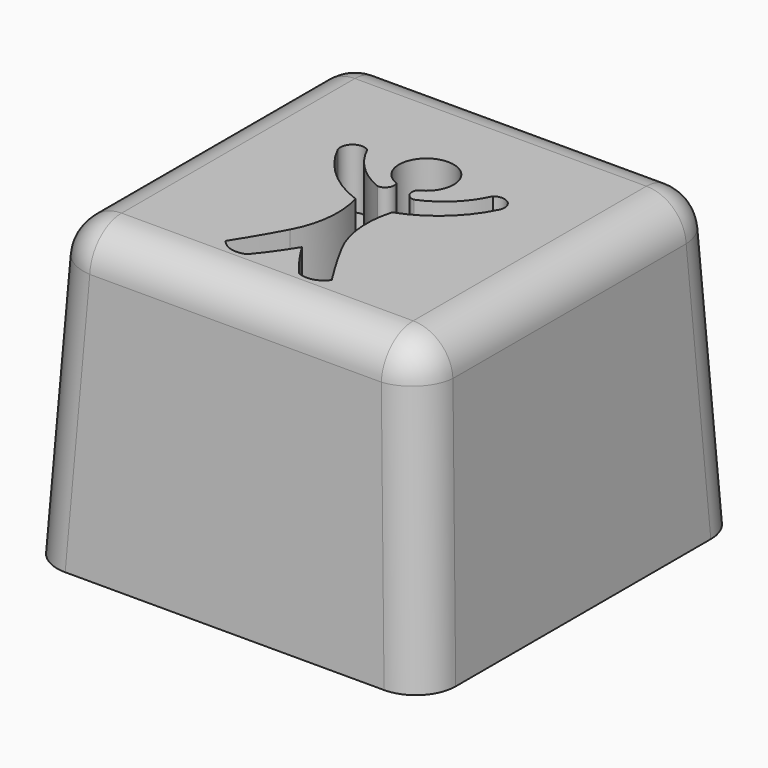
from build123d import *

# Parameters (mm, degrees)
F0_W     = 20
F0_H     = 20
F1_DEPTH = 15
F1_TAPER = 3
F2_R     = 2
F4_DEPTH = 3


with BuildPart() as f1:
    # F0 (on Top) → F1 (new body)
    with BuildSketch(Plane.XY):
        with Locations((0.5756109022, 1.4432906293)):
            Rectangle(F0_W, F0_H)
    extrude(amount=F1_DEPTH, taper=F1_TAPER)

    # F2
    f2_edges = [f1.edges().sort_by_distance(p)[0] for p in [
        (10.182552, 11.050232, 7.500009),
        (-9.031331, 11.050232, 7.5),
        (0.575611, 10.657174, 15),
        (9.789494, 1.443291, 15),
        (-8.638272, 1.443291, 15),
        (0.575611, -7.770593, 15),
        (10.182553, -8.163651, 7.5),
        (-9.031331, -8.163651, 7.5),
    ]]
    fillet(f2_edges, radius=F2_R)

    # F3 (on face) → F4 (cut)
    with BuildSketch(Plane.XY.offset(15)):
        with BuildLine():
            ThreePointArc((0.0739849746, 2.8522026186), (0.0610210241, 2.3942139809), (-0.3458335996, 2.1835223306))
            ThreePointArc((-0.3458335996, 2.1835223306), (-1.6651722336, 3.0450533776), (-2.5740938727, 4.332202021))
            ThreePointArc((-2.5740938727, 4.332202021), (-3.2984354247, 4.3375147134), (-3.5025356337, 3.6425024737))
            ThreePointArc((-3.5025356337, 3.6425024737), (-2.2013261333, 1.9150900343), (-0.3458335996, 0.8041231777))
            ThreePointArc((-0.3458335996, 0.8041231777), (-0.1755041632, -1.0493512959), (-0.7172103506, -2.8300629929))
            ThreePointArc((-0.7172103506, -2.8300629929), (-1.3788731625, -4.0087859867), (-2.0861055236, -5.160744302))
            ThreePointArc((-2.0861055236, -5.160744302), (-1.4661125478, -5.5869675362), (-0.7172103506, -5.5148354732))
            ThreePointArc((-0.7172103506, -5.5148354732), (-0.0370124501, -4.6360900284), (0.5756109022, -3.708967939))
            ThreePointArc((0.5756109022, -3.708967939), (1.1882342544, -4.6360900284), (1.8684321549, -5.5148354732))
            ThreePointArc((1.8684321549, -5.5148354732), (2.6173343521, -5.5869675362), (3.237327328, -5.160744302))
            ThreePointArc((3.237327328, -5.160744302), (2.5300949668, -4.0087859867), (1.8684321549, -2.8300629929))
            ThreePointArc((1.8684321549, -2.8300629929), (1.3267259675, -1.0493512959), (1.4970554039, 0.8041231777))
            ThreePointArc((1.4970554039, 0.8041231777), (3.3525479377, 1.9150900343), (4.6537574381, 3.6425024737))
            ThreePointArc((4.6537574381, 3.6425024737), (4.449657229, 4.3375147134), (3.725315677, 4.332202021))
            ThreePointArc((3.725315677, 4.332202021), (2.8163940379, 3.0450533776), (1.4970554039, 2.1835223306))
            ThreePointArc((1.4970554039, 2.1835223306), (1.0790271453, 2.4130070709), (1.100178456, 2.8894139275))
            ThreePointArc((1.100178456, 2.8894139275), (0.4912082686, 5.5147546705), (0.0739849746, 2.8522026186))
        make_face()
    extrude(amount=-F4_DEPTH, mode=Mode.SUBTRACT)


solid = f1.part
